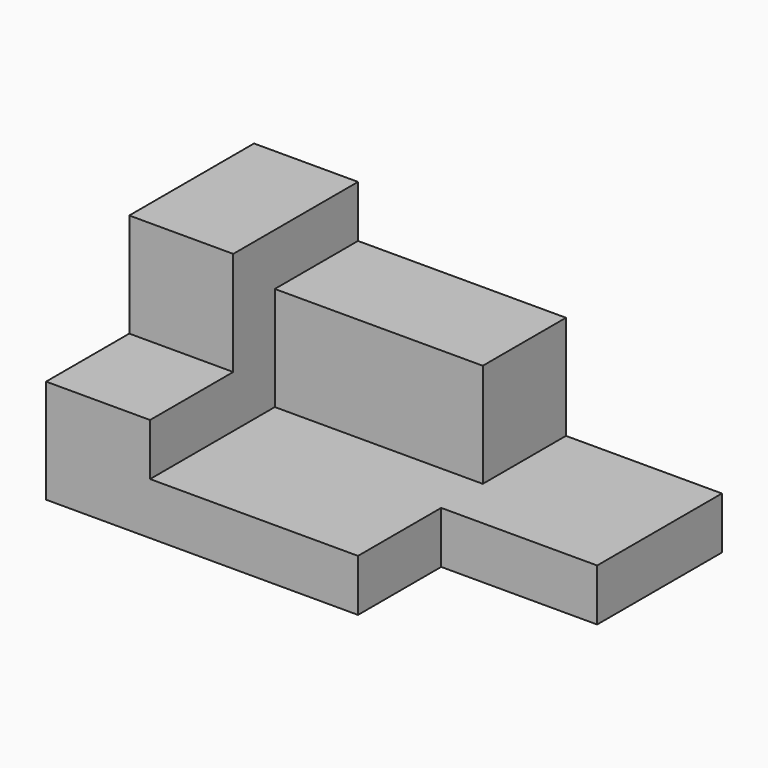
from build123d import *

# Parameters (mm, degrees)
PAD_DEPTH    = 10
SKETCH001_W  = 20
SKETCH001_H  = 50
PAD001_DEPTH = 10
SKETCH002_W  = 20
SKETCH002_H  = 30
PAD002_DEPTH = 20
SKETCH003_W  = 40
SKETCH003_H  = 20
PAD003_DEPTH = 20


with BuildPart() as part:
    # Sketch → Pad (new body)
    with BuildSketch(Plane.XY):
        Polygon((-45, 50), (-45, 0), (15, 0), (15, 20), (45, 20), (45, 50), align=None)
    extrude(amount=PAD_DEPTH)

    # Sketch001 → Pad001 (new body)
    with BuildSketch(Plane.XY.offset(10)):
        with Locations((-35, 25)):
            Rectangle(SKETCH001_W, SKETCH001_H)
    extrude(amount=PAD001_DEPTH)

    # Sketch002 → Pad002 (new body)
    with BuildSketch(Plane.XY.offset(20)):
        with Locations((-35, 35)):
            Rectangle(SKETCH002_W, SKETCH002_H)
    extrude(amount=PAD002_DEPTH)

    # Sketch003 → Pad003 (new body)
    with BuildSketch(Plane.XY.offset(10)):
        with Locations((-5, 40)):
            Rectangle(SKETCH003_W, SKETCH003_H)
    extrude(amount=PAD003_DEPTH)


solid = part.part
